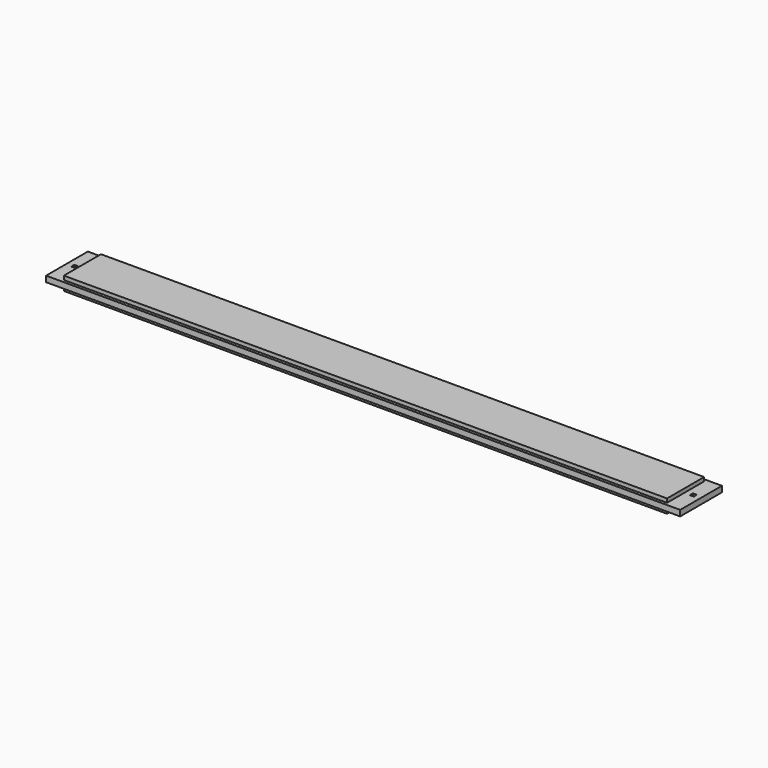
from build123d import *

# Parameters (mm, degrees)
F0_W     = 2082.8
F0_H     = 171.45
F1_DEPTH = 44.45
F2_W     = 1981.2
F2_H     = 9.525
F3_DEPTH = 12.7
F4_W     = 1981.2
F4_H     = 9.525
F5_DEPTH = 12.7
F6_W     = 12.7
F6_H     = 12.7
F7_DEPTH = 31.751


with BuildPart() as f1:
    # F0 (on Top) → F1 (new body)
    with BuildSketch(Plane.XY):
        with Locations((80.949743, -507.08936)):
            Rectangle(F0_W, F0_H)
    extrude(amount=F1_DEPTH)

    # F2 (on face) → F3 (cut)
    with BuildSketch(Plane(origin=(0, 0, 0), x_dir=(1, 0, 0), z_dir=(0, 0, -1))):
        Polygon((-960.450257, 592.81436), (-960.450257, 421.36436), (-909.650257, 421.36436), (-909.650257, 430.88936), (-909.650257, 583.28936), (-909.650257, 592.81436), align=None)
        with Locations((80.949743, 426.12686)):
            Rectangle(F2_W, F2_H)
        Polygon((1071.549743, 430.88936), (1071.549743, 421.36436), (1122.349743, 421.36436), (1122.349743, 592.81436), (1071.549743, 592.81436), (1071.549743, 583.28936), align=None)
        with Locations((80.949743, 588.05186)):
            Rectangle(F2_W, F2_H)
    extrude(amount=-F3_DEPTH, mode=Mode.SUBTRACT)

    # F4 (on face) → F5 (cut)
    with BuildSketch(Plane.XY.offset(44.45)):
        Polygon((1122.349743, -421.36436), (1071.549743, -421.36436), (1071.549743, -430.88936), (1071.549743, -583.28936), (1071.549743, -592.81436), (1122.349743, -592.81436), align=None)
        with Locations((80.949743, -426.12686)):
            Rectangle(F4_W, F4_H)
        Polygon((-909.650257, -430.88936), (-909.650257, -421.36436), (-960.450257, -421.36436), (-960.450257, -592.81436), (-909.650257, -592.81436), (-909.650257, -583.28936), align=None)
        with Locations((80.949743, -588.05186)):
            Rectangle(F4_W, F4_H)
    extrude(amount=-F5_DEPTH, mode=Mode.SUBTRACT)

    # F6 (on face) → F7 (cut, through all)
    with BuildSketch(Plane(origin=(0, 0, 12.7), x_dir=(1, 0, 0), z_dir=(0, 0, -1))):
        with Locations((-935.050257, 507.08936)):
            Rectangle(F6_W, F6_H)
        with Locations((1096.949743, 507.08936)):
            Rectangle(F6_W, F6_H)
    extrude(amount=-F7_DEPTH, mode=Mode.SUBTRACT)


solid = f1.part
